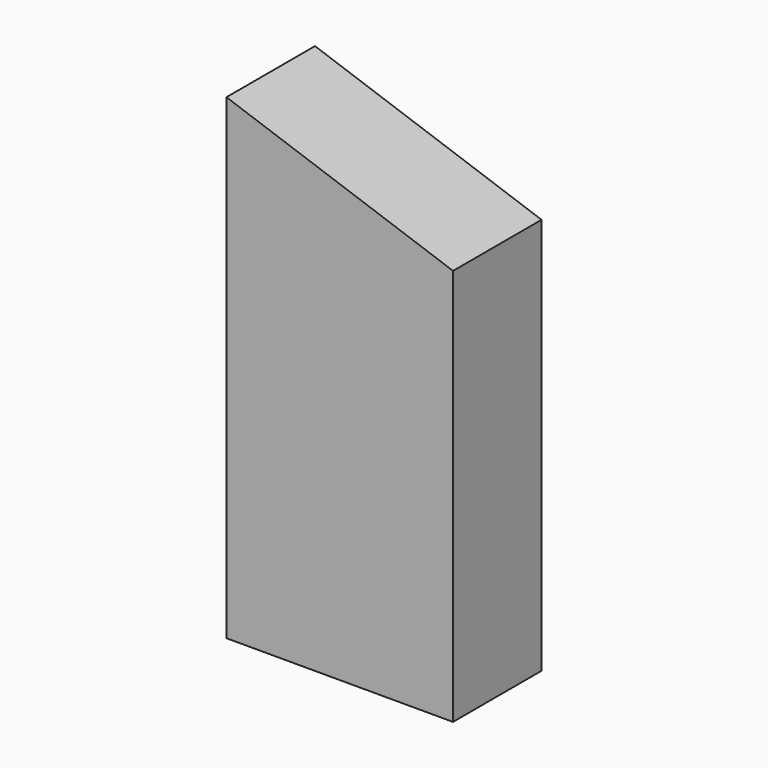
from build123d import *

# Parameters (mm, degrees)
F0_R     = 11
F1_DEPTH = 3.5
F3_DEPTH = 19.05


with BuildPart() as f1:
    # F0 (on Front) → F1 (new body, symmetric)
    with BuildSketch(Plane.XZ):
        with BuildLine():
            ThreePointArc((32.332994, 19.822553), (28.916134, 20.703546), (25.4, 21))
            Line((25.4, 21), (-85.4, 21))
            Line((-85.4, 21), (-85.4, -21))
            Line((-85.4, -21), (25.4, -21))
            ThreePointArc((25.4, -21), (46.103546, -3.516134), (32.332994, 19.822553))
        make_face()
        with Locations((-25.4, 0)):
            Circle(F0_R, mode=Mode.SUBTRACT)
        with Locations((25.4, 0)):
            Circle(F0_R, mode=Mode.SUBTRACT)
        with BuildLine():
            Line((-85.4, 21), (25.4, 21))
            ThreePointArc((25.4, 21), (28.916134, 20.703546), (32.332994, 19.822553))
            Line((32.332994, 19.822553), (-85.4, 61))
            Line((-85.4, 61), (-85.4, 21))
        make_face()
    extrude(amount=F1_DEPTH, both=True)


with BuildPart() as f3:
    # F2 (on face) → F3 (new body)
    with BuildSketch(Plane.XZ.offset(3.5)):
        Polygon((-46.4, 47.35964), (-85.4, 61), (-85.4, -21), (-46.4, -21), align=None)
    extrude(amount=F3_DEPTH)


with BuildPart() as f4_1:
    # F4: instance of F3
    add(f3.part.mirror(Plane.XZ))


solid = f4_1.part
